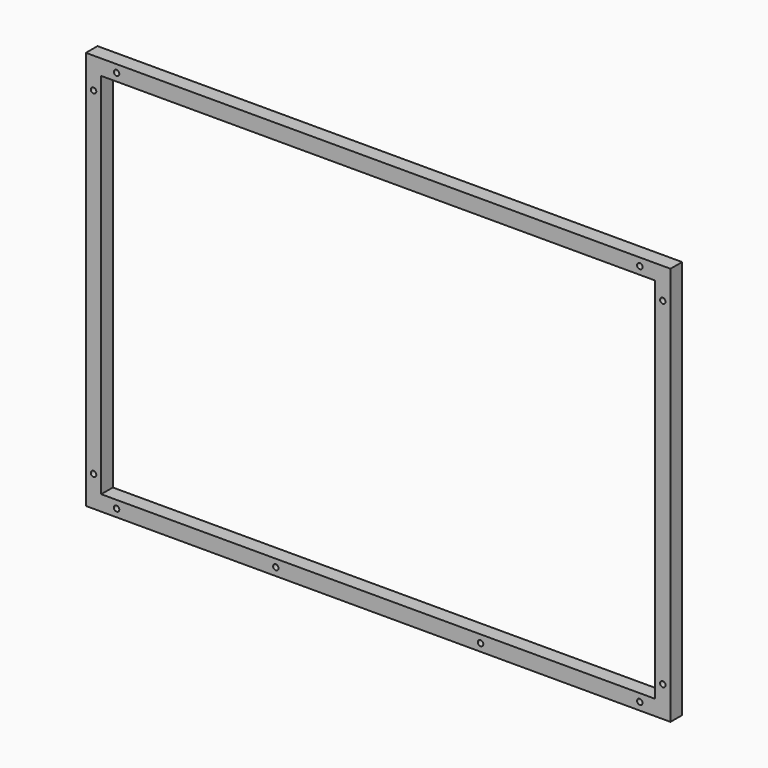
from build123d import *

# Parameters (mm, degrees)
F0_W     = 241.935
F0_H     = 165.1
F0_R     = 1.1303
F0_W_2   = 229.235
F0_H_2   = 152.4
F1_DEPTH = 6.0198


with BuildPart() as f1:
    # F0 (on Front) → F1 (new body)
    with BuildSketch(Plane.XZ):
        with Locations((114.6175, 76.2)):
            Rectangle(F0_W, F0_H)
        with Locations((6.35, -3.175)):
            Circle(F0_R, mode=Mode.SUBTRACT)
        with Locations((-3.175, 6.35)):
            Circle(F0_R, mode=Mode.SUBTRACT)
        with Locations((72.2503, -3.127908)):
            Circle(F0_R, mode=Mode.SUBTRACT)
        with Locations((156.9847, -3.222092)):
            Circle(F0_R, mode=Mode.SUBTRACT)
        with Locations((222.885, -3.175)):
            Circle(F0_R, mode=Mode.SUBTRACT)
        with Locations((232.41, 6.35)):
            Circle(F0_R, mode=Mode.SUBTRACT)
        with Locations((-3.175, 146.05)):
            Circle(F0_R, mode=Mode.SUBTRACT)
        with Locations((6.35, 155.575)):
            Circle(F0_R, mode=Mode.SUBTRACT)
        with Locations((114.6175, 76.2)):
            Rectangle(F0_W_2, F0_H_2, mode=Mode.SUBTRACT)
        with Locations((232.41, 146.05)):
            Circle(F0_R, mode=Mode.SUBTRACT)
        with Locations((222.885, 155.575)):
            Circle(F0_R, mode=Mode.SUBTRACT)
    extrude(amount=F1_DEPTH)


solid = f1.part
